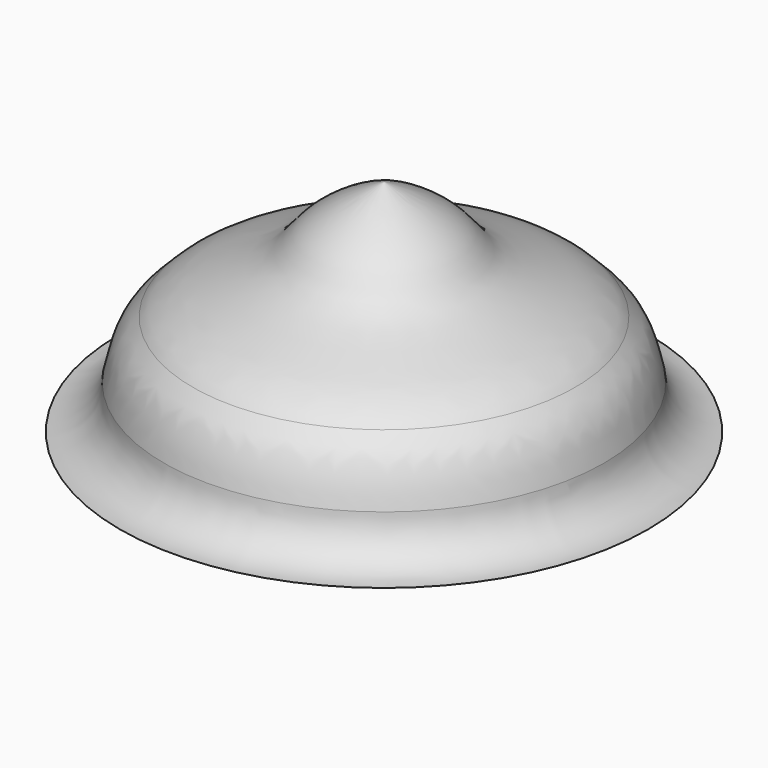
from build123d import *

# Parameters (mm, degrees)
F2_ANGLE = 180


with BuildPart() as f1:
    # F0 (on Front) → F1 (revolve)
    with BuildSketch(Plane.XZ):
        with BuildLine():
            Line((0, -5), (0, 0))
            Line((0, 0), (-5, 0))
            add(Edge.make_bspline(
                [(-5, 0), (-4.5352212381, -0.9355523581), (-4.7968179608, -1.7692674897), (-4.3447203934, -2.3018131033)],
                knots=[0, 0, 0, 0, 0.3257842781, 0.3257842781, 0.3257842781, 0.3257842781], degree=3))
            add(Edge.make_bspline(
                [(-4.3447203934, -2.3018131033), (-3.8908955958, -2.8363932973), (-1.4726280315, -3.3128485794), (-1.8334671951, -4.2293712998), (0, -5)],
                knots=[0.3257842781, 0.3257842781, 0.3257842781, 0.3257842781, 0.6528132089, 1, 1, 1, 1], degree=3))
        make_face()
        with BuildLine():
            add(Edge.make_bspline(
                [(-5, 0), (-4.5352212381, -0.9355523581), (-4.7968179608, -1.7692674897), (-4.3447203934, -2.3018131033)],
                knots=[0, 0, 0, 0, 0.3257842781, 0.3257842781, 0.3257842781, 0.3257842781], degree=3))
            Line((-5, 0), (-6, 0))
            ThreePointArc((-6, 0), (-5.2928932188, -0.2928932188), (-5, -1))
            add(Edge.make_bspline(
                [(-4.3447203934, -2.3018131033), (-4.4893092701, -2.1641126798), (-4.8071611132, -1.8614038244), (-4.9319673589, -1.3038991677), (-5, -1)],
                knots=[0, 0, 0, 0, 0.4548939385, 1, 1, 1, 1], degree=3))
        make_face()
    revolve(axis=Axis((0, 0, -2.5), (0, 0, 1)))


with BuildPart() as f1_1:
    # F2: moved
    add(f1.part.rotate(Axis((-2.5, 0, 0), (-1, 0, 0)), F2_ANGLE))


solid = f1_1.part
